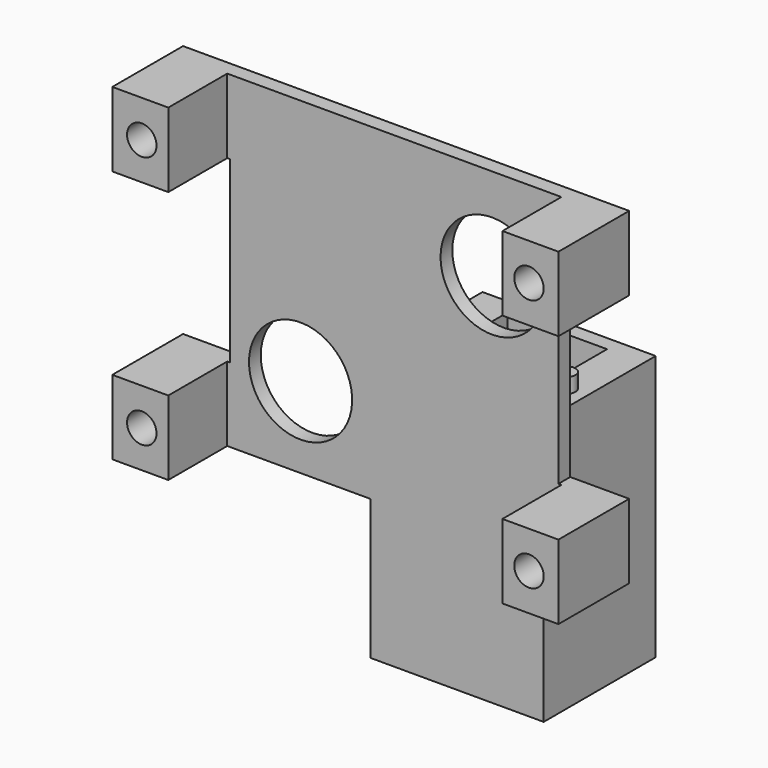
from build123d import *

# Parameters (mm, degrees)
SKETCH_R        = 2
PAD_DEPTH       = 2
SKETCH001_W     = 7.6
SKETCH001_H     = 10.1
SKETCH001_R     = 2
PAD001_DEPTH    = 10
SKETCH002_R     = 7
POCKET_DEPTH    = 12.001
SKETCH004_W     = 13.5
SKETCH004_H     = 15
PAD003_DEPTH    = 34
SKETCH005_W     = 23.5
SKETCH005_H     = 19
SKETCH005_R     = 2.5
PAD004_DEPTH    = 2
SKETCH006_R     = 1.25
PAD005_DEPTH    = 2
SKETCH007_R     = 3.5
POCKET001_DEPTH = 5


with BuildPart() as part:
    # Sketch → Pad (new body)
    with BuildSketch(Plane.XZ):
        Polygon((-22.275, 22.25), (22.275, 22.25), (30.275, 22.25), (30.275, 12.15), (22.275, 12.15), (22.275, -12.15), (30.275, -12.15), (30.275, -22.25), (22.275, -22.25), (-22.275, -22.25), (-30.275, -22.25), (-30.275, -12.15), (-22.275, -12.15), (-22.275, 12.15), (-30.275, 12.15), (-30.275, 22.25), align=None)
        with Locations((-26.275, 17.2)):
            Circle(SKETCH_R, mode=Mode.SUBTRACT)
        with Locations((26.275, 17.2)):
            Circle(SKETCH_R, mode=Mode.SUBTRACT)
        with Locations((26.275, -17.2)):
            Circle(SKETCH_R, mode=Mode.SUBTRACT)
        with Locations((-26.275, -17.2)):
            Circle(SKETCH_R, mode=Mode.SUBTRACT)
    extrude(amount=PAD_DEPTH)

    # Sketch001 (on Face22 of Pad) → Pad001 (join)
    with BuildSketch(Plane.XZ.offset(2)):
        with Locations((-26.475, 17.2)):
            Rectangle(SKETCH001_W, SKETCH001_H)
        with Locations((-26.275, 17.2)):
            Circle(SKETCH001_R, mode=Mode.SUBTRACT)
        with Locations((-26.475, -17.2)):
            Rectangle(SKETCH001_W, SKETCH001_H)
        with Locations((-26.275, -17.2)):
            Circle(SKETCH001_R, mode=Mode.SUBTRACT)
        with Locations((26.475, -17.2)):
            Rectangle(SKETCH001_W, SKETCH001_H)
        with Locations((26.275, -17.2)):
            Circle(SKETCH001_R, mode=Mode.SUBTRACT)
        with Locations((26.475, 17.2)):
            Rectangle(SKETCH001_W, SKETCH001_H)
        with Locations((26.275, 17.2)):
            Circle(SKETCH001_R, mode=Mode.SUBTRACT)
    extrude(amount=PAD001_DEPTH)

    # Sketch002 (on Face4 of Pad001) → Pocket (cut, through all)
    with BuildSketch(Plane(origin=(0, 0, 0), x_dir=(-1, 0, 0), z_dir=(0, 1, 0))):
        with Locations((-13.275, 9.75)):
            Circle(SKETCH002_R)
        with Locations((12.725, -11.25)):
            Circle(SKETCH002_R)
    extrude(amount=-POCKET_DEPTH, mode=Mode.SUBTRACT)

    # Sketch004 (on DatumPlane) → Pad003 (join)
    with BuildSketch(Plane(origin=(0, 0, -5.25), x_dir=(1, 0, 0), z_dir=(0, 0, -1))):
        Polygon((-3.225, 0), (-3.225, -17), (20.275, -17), (20.275, 0), (20.275, 2), (-3.225, 2), align=None)
        with Locations((8.525, -7.5)):
            Rectangle(SKETCH004_W, SKETCH004_H, mode=Mode.SUBTRACT)
    extrude(amount=PAD003_DEPTH)

    # Sketch005 (on Face45 of Pad003) → Pad004 (join)
    with BuildSketch(Plane(origin=(0, 0, -39.25), x_dir=(1, 0, 0), z_dir=(0, 0, -1))):
        with Locations((8.525, -7.5)):
            Rectangle(SKETCH005_W, SKETCH005_H)
        with Locations((8.525, -6)):
            Circle(SKETCH005_R, mode=Mode.SUBTRACT)
    extrude(amount=PAD004_DEPTH)

    # Sketch006 (on Face16 of Pad004) → Pad005 (join)
    with BuildSketch(Plane.XY.offset(-5.25)):
        with Locations((-0.475, 5.25)):
            Circle(SKETCH006_R)
        with Locations((17.525, 5.25)):
            Circle(SKETCH006_R)
    extrude(amount=PAD005_DEPTH)

    # Sketch007 (on Face4 of Pad005) → Pocket001 (cut)
    with BuildSketch(Plane(origin=(0, 0, 0), x_dir=(-1, 0, 0), z_dir=(0, 1, 0))):
        with Locations((26.275, -17.2)):
            Circle(SKETCH007_R)
        with Locations((26.275, 17.2)):
            Circle(SKETCH007_R)
        with Locations((-26.275, 17.2)):
            Circle(SKETCH007_R)
        with Locations((-26.275, -17.2)):
            Circle(SKETCH007_R)
    extrude(amount=-POCKET001_DEPTH, mode=Mode.SUBTRACT)


solid = part.part
